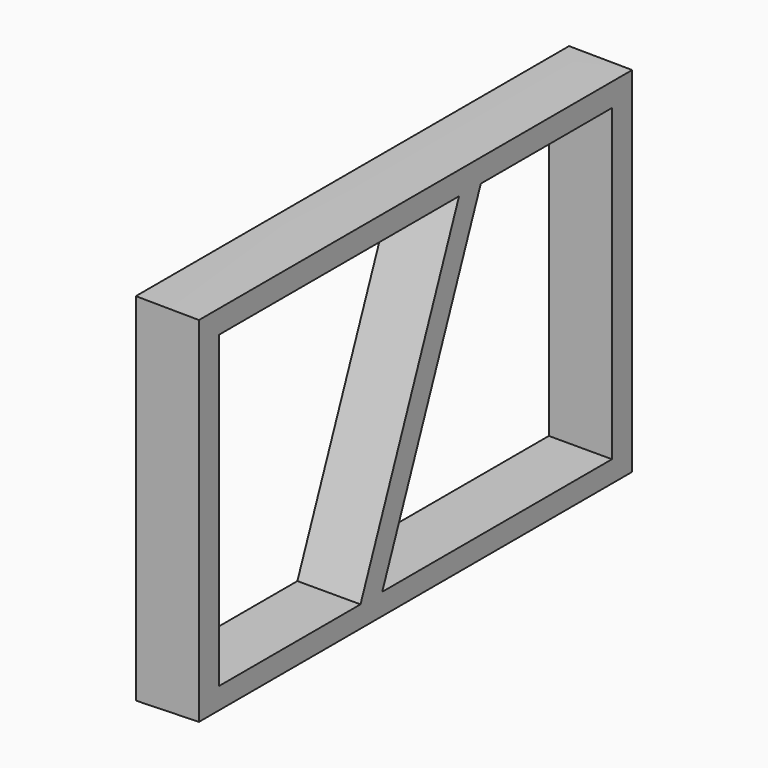
from build123d import *

# Parameters (mm, degrees)
PAD003_DEPTH    = 975
SKETCH013_W     = 310
SKETCH013_H     = 1100
SKETCH013_W_2   = 5
SKETCH013_H_2   = 42.9
POCKET007_DEPTH = 50
SKETCH014_W     = 24.5
SKETCH014_H     = 38.9
POCKET008_DEPTH = 5
PAD004_DEPTH    = 5


with BuildPart() as part:
    # Sketch012 → Pad003 (new body)
    with BuildSketch(Plane.XZ):
        with BuildLine():
            add(Edge.make_bspline(
                [(300, 0), (299.662763, 0.037038), (298.339429, 0.190429), (295.439956, 0.589667), (290.775356, 1.337839), (284.500044, 2.393262), (276.735212, 3.66473), (267.577355, 5.083019), (257.136483, 6.653879), (245.549215, 8.381993), (232.975291, 10.222771), (219.590016, 12.153256), (205.573823, 14.115503), (191.111579, 16.055183), (176.381713, 17.897983), (161.544489, 19.553409), (146.739309, 20.940939), (132.087536, 21.99009), (117.705275, 22.664279), (103.703346, 22.961168), (90.192549, 22.858072), (77.284675, 22.375726), (65.094168, 21.544938), (53.730431, 20.369385), (43.29002, 18.857963), (33.852484, 17.043697), (25.485501, 14.967735), (18.252292, 12.67281), (12.179436, 10.224412), (7.338355, 7.689021), (3.623023, 5.152403), (1.3546, 2.748114), (-0.314638, 0.590402), (0.575789, -1.804065), (3.482069, -2.72942), (7.386052, -3.91761), (13.030922, -4.754284), (20.096342, -5.463024), (28.645402, -5.933379), (38.56853, -6.201185), (49.790194, -6.284208), (62.196701, -6.193111), (75.660953, -5.967607), (90.034637, -5.629522), (105.153445, -5.226063), (120.83724, -4.775199), (136.895942, -4.296045), (153.13493, -3.818601), (169.356828, -3.345106), (185.36574, -2.889379), (200.968742, -2.465331), (215.974941, -2.074889), (230.201502, -1.715375), (243.47905, -1.394255), (255.639348, -1.103787), (266.558709, -0.84997), (276.034546, -0.603516), (284.209016, -0.340421), (290.324818, -0.117753), (295.956469, 0.021784), (297.365519, 0.017012), (300.344672, 0.018536), (300.000994, -0.000109), (300, 0)],
                knots=[0, 0, 0, 0, 1.017748, 3.99659, 8.779341, 15.189917, 23.087031, 32.383824, 42.990765, 54.76218, 67.530065, 81.114584, 95.333435, 109.988542, 124.889458, 139.866624, 154.774633, 169.496697, 183.930349, 197.964304, 211.506735, 224.45797, 236.709214, 248.156653, 258.723012, 268.346769, 276.97692, 284.567784, 291.102108, 296.573756, 300.992679, 304.39163, 306.761357, 308.43213, 311.131254, 315.298227, 320.951765, 328.080828, 336.654655, 346.609821, 357.866231, 370.316475, 383.83025, 398.264023, 413.449345, 429.202773, 445.334827, 461.646891, 477.940787, 494.021253, 509.693044, 524.767168, 539.054704, 552.387642, 564.607107, 575.560217, 585.109622, 593.180747, 599.700326, 604.53767, 607.540683, 608.560842, 608.563842, 608.563842, 608.563842, 608.563842], degree=3))
        make_face()
    extrude(amount=PAD003_DEPTH)

    # Sketch013 → Pocket007 (cut, symmetric)
    with BuildSketch(Plane.XY):
        with Locations((155, -550)):
            Rectangle(SKETCH013_W, SKETCH013_H)
        with Locations((104.55, -28.45)):
            Rectangle(SKETCH013_W_2, SKETCH013_H_2, mode=Mode.SUBTRACT)
    extrude(amount=POCKET007_DEPTH, both=True, mode=Mode.SUBTRACT)

    # Sketch014 (on Face3 of Pocket007) → Pocket008 (cut)
    with BuildSketch(Plane(origin=(107.05, 0, 0), x_dir=(0, 0, 1), z_dir=(1, 0, 0))):
        with Locations((8.777474, 28.45)):
            Rectangle(SKETCH014_W, SKETCH014_H)
    extrude(amount=-POCKET008_DEPTH, mode=Mode.SUBTRACT)

    # Sketch015 (on Face3 of Pocket008) → Pad004 (join)
    with BuildSketch(Plane(origin=(107.05, 0, 0), x_dir=(0, 0, 1), z_dir=(1, 0, 0))):
        Polygon((-4.239797, 34.207994), (22.004584, 23.751485), (22.004584, 21.598585), (-4.239797, 32.055093), align=None)
    extrude(amount=-PAD004_DEPTH)


solid = part.part
